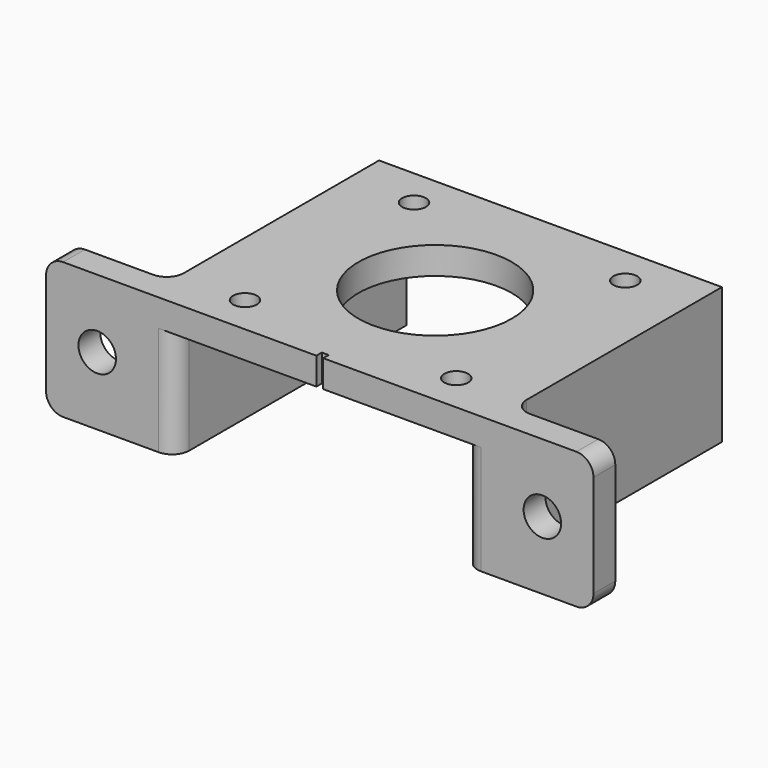
from build123d import *

# Parameters (mm, degrees)
F0_W     = 4
F0_H     = 38.3
F0_R     = 1.75
F0_R_2   = 11.25
F1_DEPTH = 4
F3_DEPTH = 16
F4_R     = 2.75
F5_DEPTH = 4
F6_R     = 2.5
F7_W     = 0.5
F7_H     = 4
F8_DEPTH = 1


with BuildPart() as f1:
    # F0 (on Top) → F1 (new body)
    with BuildSketch(Plane.XY):
        with Locations((-23.15, 2)):
            Rectangle(F0_W, F0_H)
        Polygon((21.15, 21.15), (-21.15, 21.15), (-21.15, -17.15), (-21.15, -21.15), (21.15, -21.15), (21.15, -17.15), align=None)
        with Locations((-15.495, -15.495)):
            Circle(F0_R, mode=Mode.SUBTRACT)
        with Locations((15.495, -15.495)):
            Circle(F0_R, mode=Mode.SUBTRACT)
        with Locations((-15.495, 15.495)):
            Circle(F0_R, mode=Mode.SUBTRACT)
        Circle(F0_R_2, mode=Mode.SUBTRACT)
        with Locations((15.495, 15.495)):
            Circle(F0_R, mode=Mode.SUBTRACT)
        with Locations((23.15, 2)):
            Rectangle(F0_W, F0_H)
        Polygon((-21.15, -21.15), (-21.15, -17.15), (-25.15, -17.15), (-40.15, -17.15), (-40.15, -21.15), align=None)
        Polygon((25.15, -17.15), (21.15, -17.15), (21.15, -21.15), (40.15, -21.15), (40.15, -17.15), align=None)
    extrude(amount=F1_DEPTH)

    # F2 (on face) → F3 (join)
    with BuildSketch(Plane(origin=(0, 0, 0), x_dir=(1, 0, 0), z_dir=(0, 0, -1))):
        Polygon((-25.15, -21.15), (-21.15, -21.15), (-21.15, 17.15), (-21.15, 21.15), (-40.15, 21.15), (-40.15, 17.15), (-25.15, 17.15), align=None)
        Polygon((21.15, 17.15), (21.15, -21.15), (25.15, -21.15), (25.15, 17.15), (40.15, 17.15), (40.15, 21.15), (21.15, 21.15), align=None)
    extrude(amount=F3_DEPTH)

    # F4 (on face) → F5 (cut, through all)
    with BuildSketch(Plane.XZ.offset(21.15)):
        with Locations((-32.65, -6)):
            Circle(F4_R)
        with Locations((32.65, -6)):
            Circle(F4_R)
    extrude(amount=-F5_DEPTH, mode=Mode.SUBTRACT)

    # F6
    f6_edges = [f1.edges().sort_by_distance(p)[0] for p in [
        (-40.15, -19.15, 4),
        (-40.15, -19.15, -16),
        (40.15, -19.15, -16),
        (40.15, -19.15, 4),
        (25.15, -17.15, -6),
        (-25.15, -17.15, -6),
        (21.15, -21.15, -8),
        (-21.15, -21.15, -8),
    ]]
    fillet(f6_edges, radius=F6_R)

    # F7 (on face) → F8 (cut)
    with BuildSketch(Plane.XZ.offset(21.15)):
        with Locations((0.25, 2)):
            Rectangle(F7_W, F7_H)
        with Locations((-0.25, 2)):
            Rectangle(F7_W, F7_H)
    extrude(amount=-F8_DEPTH, mode=Mode.SUBTRACT)


solid = f1.part
